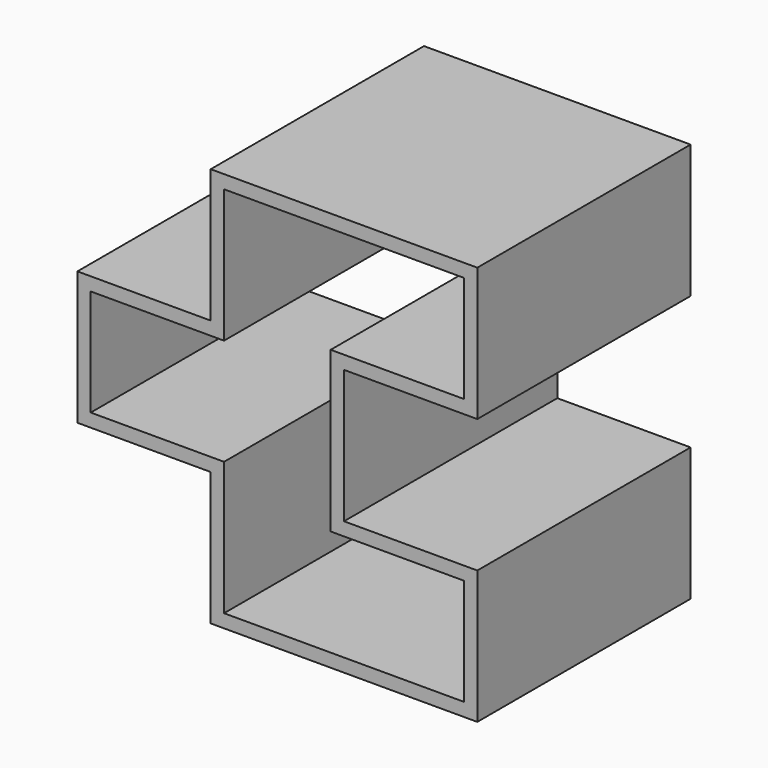
from build123d import *

# Parameters (mm, degrees)
F2_DEPTH = 50.8


with BuildPart() as f2:
    # F1 (on face) → F2 (new body)
    with BuildSketch(Plane.XZ):
        Polygon((25.4, 25.4), (0, 25.4), (0, 0), (25.4, 0), (25.4, -25.4), (76.2, -25.4), (76.2, 0), (50.8, 0), (50.8, 25.4), (76.2, 25.4), (76.2, 50.8), (25.4, 50.8), align=None)
        Polygon((2.54, 22.86), (27.94, 22.86), (27.94, 48.26), (73.66, 48.26), (73.66, 27.94), (48.26, 27.94), (48.26, -2.54), (73.66, -2.54), (73.66, -22.86), (27.94, -22.86), (27.94, 2.54), (2.54, 2.54), align=None, mode=Mode.SUBTRACT)
    extrude(amount=-F2_DEPTH)


solid = f2.part
